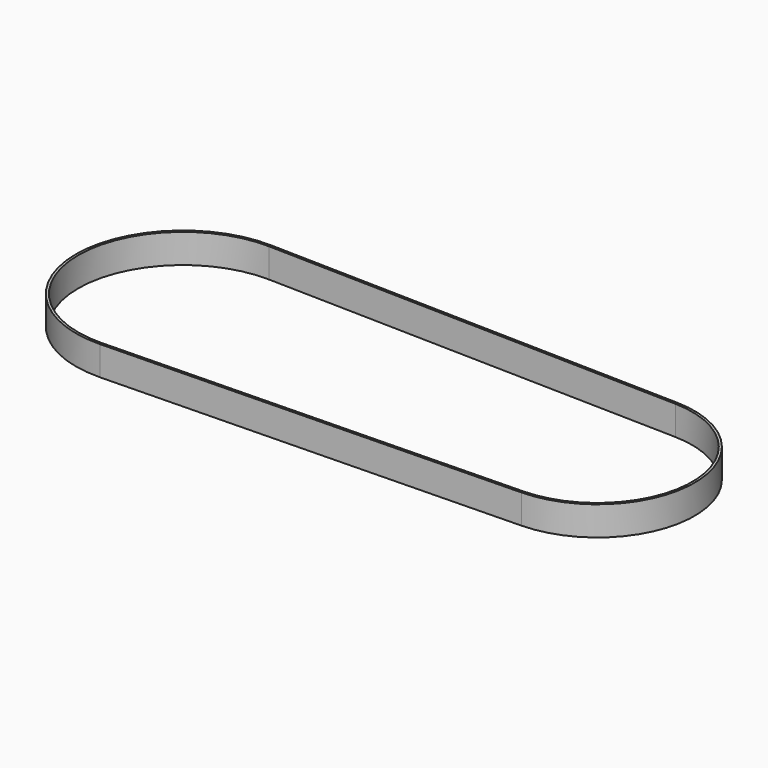
from build123d import *

# Parameters (mm, degrees)
PAD_DEPTH = 6


with BuildPart() as part:
    # Sketch → Pad (new body)
    with BuildSketch(Plane.XY):
        with BuildLine():
            ThreePointArc((-30.883772, 21.993932), (-53.400452, 0), (-30.883772, -21.993932))
            Line((-30.883772, -21.993932), (54.228437, -19.994484))
            ThreePointArc((54.228437, -19.994484), (73.758728, 0), (54.228437, 19.994484))
            Line((-30.883772, 21.993932), (54.228437, 19.994484))
        make_face()
        with BuildLine():
            ThreePointArc((-30.895515, 21.49407), (-52.900452, 0), (-30.895515, -21.49407))
            Line((-30.895515, -21.49407), (54.216694, -19.494621))
            ThreePointArc((54.216694, -19.494621), (73.258728, 0), (54.216694, 19.494621))
            Line((-30.895515, 21.49407), (54.216694, 19.494621))
        make_face(mode=Mode.SUBTRACT)
    extrude(amount=PAD_DEPTH)


solid = part.part
